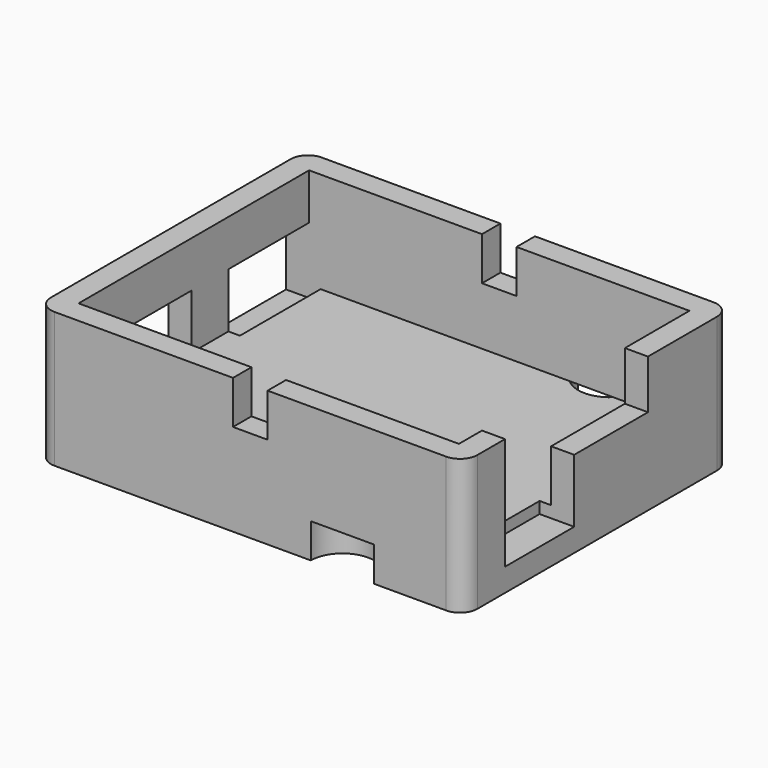
from build123d import *

# Parameters (mm, degrees)
F0_W      = 37
F0_H      = 29
F0_W_2    = 33
F0_H_2    = 25
F1_DEPTH  = 12
F2_DEPTH  = 2
F4_DEPTH  = 2
F6_DEPTH  = 1
F7_W      = 8.75
F7_H      = 4.75
F7_W_2    = 12.25
F8_DEPTH  = 2
F10_DEPTH = 1
F11_DEPTH = 1
F13_DEPTH = 3
F14_R     = 1.5
F15_W     = 3
F15_H     = 3.5
F16_DEPTH = 27
F17_DEPTH = 2
F18_DEPTH = 0.5
F19_DEPTH = 1.25
F20_DEPTH = 1.5


with BuildPart() as f1:
    # F0 (on Top) → F1 (new body)
    with BuildSketch(Plane.XY):
        Rectangle(F0_W, F0_H)
        Rectangle(F0_W_2, F0_H_2, mode=Mode.SUBTRACT)
    extrude(amount=F1_DEPTH)

    # F0 (on Top) → F2 (join)
    with BuildSketch(Plane.XY):
        Rectangle(F0_W_2, F0_H_2)
    extrude(amount=F2_DEPTH)

    # F3 (on face) → F4 (cut)
    with BuildSketch(Plane(origin=(16.5, 0, 0), x_dir=(0, -1, 0), z_dir=(-1, 0, 0))):
        Polygon((2.5, 2), (10, 2), (10, 12), (-5.5, 12), (-5.5, 7), (2.5, 7), align=None)
    extrude(amount=-F4_DEPTH, mode=Mode.SUBTRACT)

    # F5 (on face) → F6 (cut)
    with BuildSketch(Plane.XY.offset(2)):
        Polygon((15.5, -10), (16.5, -10), (18.5, -10), (18.5, -2.5), (16.5, -2.5), (15.5, -2.5), align=None)
    extrude(amount=-F6_DEPTH, mode=Mode.SUBTRACT)

    # F7 (on face) → F8 (cut)
    with BuildSketch(Plane.YZ.offset(-16.5)):
        with Locations((8.125, 4.375)):
            Rectangle(F7_W, F7_H)
        with Locations((-6.375, 4.375)):
            Rectangle(F7_W_2, F7_H)
    extrude(amount=-F8_DEPTH, mode=Mode.SUBTRACT)

    # F9 (on face) → F10 (cut)
    with BuildSketch(Plane.XY.offset(2)):
        Polygon((-18.5, 3.75), (-16.5, 3.75), (-15.5, 3.75), (-15.5, 12.5), (-18.5, 12.5), align=None)
        Polygon((-15.5, -0.25), (-16.5, -0.25), (-18.5, -0.25), (-18.5, -12.5), (-15.5, -12.5), align=None)
    extrude(amount=-F10_DEPTH, mode=Mode.SUBTRACT)

    # F11 (add): a face of the model
    f11_faces = [f1.faces().sort_by_distance(p)[0] for p in [
        (0, 0, 0),
    ]]
    extrude(f11_faces, amount=F11_DEPTH)

    # F12 (on face) → F13 (cut)
    with BuildSketch(Plane(origin=(0, 0, -1), x_dir=(1, 0, 0), z_dir=(0, 0, -1))):
        with BuildLine():
            ThreePointArc((5.25, 14.5), (8, 11.75), (10.75, 14.5))
            Line((10.75, 14.5), (8, 14.5))
            Line((8, 14.5), (5.25, 14.5))
        make_face()
        with BuildLine():
            Line((8, -14.5), (10.75, -14.5))
            ThreePointArc((10.75, -14.5), (8, -11.75), (5.25, -14.5))
            Line((5.25, -14.5), (8, -14.5))
        make_face()
    extrude(amount=-F13_DEPTH, mode=Mode.SUBTRACT)

    # F14
    f14_edges = [f1.edges().sort_by_distance(p)[0] for p in [
        (-18.5, -14.5, 5.5),
        (18.5, -14.5, 5.5),
        (18.5, 14.5, 5.5),
        (-18.5, 14.5, 5.5),
    ]]
    fillet(f14_edges, radius=F14_R)

    # F15 (on face) → F16 (cut)
    with BuildSketch(Plane.XZ.offset(-12.5)):
        with Locations((0, 10.25)):
            Rectangle(F15_W, F15_H)
    extrude(amount=F16_DEPTH, mode=Mode.SUBTRACT)

    # F15 (on face) → F17 (cut)
    with BuildSketch(Plane.XZ.offset(-12.5)):
        with Locations((0, 10.25)):
            Rectangle(F15_W, F15_H)
    extrude(amount=-F17_DEPTH, mode=Mode.SUBTRACT)

    # F18 (cut): a face of the model
    f18_faces = [f1.faces().sort_by_distance(p)[0] for p in [
        (17.5, 1.5, 7),
    ]]
    extrude(f18_faces, amount=-F18_DEPTH, mode=Mode.SUBTRACT)

    # F19 (cut): faces of the model
    f19_faces = [f1.faces().sort_by_distance(p)[0] for p in [
        (10.8712359215, -13.1995864394, 12),
        (9.25, 14.3076461594, 12),
        (-17.8229628853, -13.8229628853, 12),
    ]]
    extrude(f19_faces, amount=-F19_DEPTH, mode=Mode.SUBTRACT)

    # F20 (cut): faces of the model
    f20_faces = [f1.faces().sort_by_distance(p)[0] for p in [
        (0, -13.5, 8.5),
        (0, 13.5, 8.5),
    ]]
    extrude(f20_faces, amount=-F20_DEPTH, mode=Mode.SUBTRACT)


solid = f1.part
